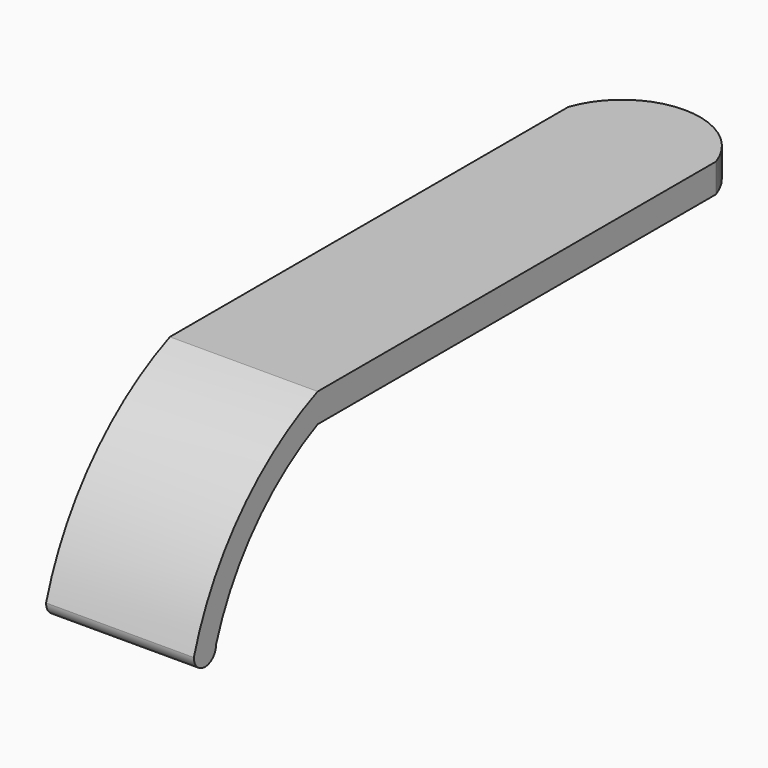
from build123d import *

# Parameters (mm, degrees)
F1_DEPTH = 10
F3_DEPTH = 25


with BuildPart() as f1:
    # F0 (on Right) → F1 (new body)
    with BuildSketch(Plane.YZ):
        with BuildLine():
            Line((48.450794, 11.589096), (10.472075, 11.589096))
            ThreePointArc((10.472075, 11.589096), (3.928864, 6.975729), (0, 0))
            ThreePointArc((0, 0), (0.93855, -0.94841), (1.877099, 0))
            ThreePointArc((1.877099, 0), (5.186727, 5.698446), (10.472075, 9.634309))
            Line((10.472075, 9.634309), (48.450794, 9.634309))
            Line((48.450794, 9.634309), (48.450794, 11.589096))
        make_face()
    extrude(amount=F1_DEPTH)

    # F2 (on face) → F3 (cut)
    with BuildSketch(Plane.XY.offset(11.589096)):
        with BuildLine():
            ThreePointArc((0, 44.173107), (5, 47.74986), (10, 44.173107))
            Line((10, 44.173107), (10, 48.450794))
            Line((10, 48.450794), (0, 48.450794))
            Line((0, 48.450794), (0, 44.173107))
        make_face()
    extrude(amount=-F3_DEPTH, mode=Mode.SUBTRACT)


solid = f1.part
